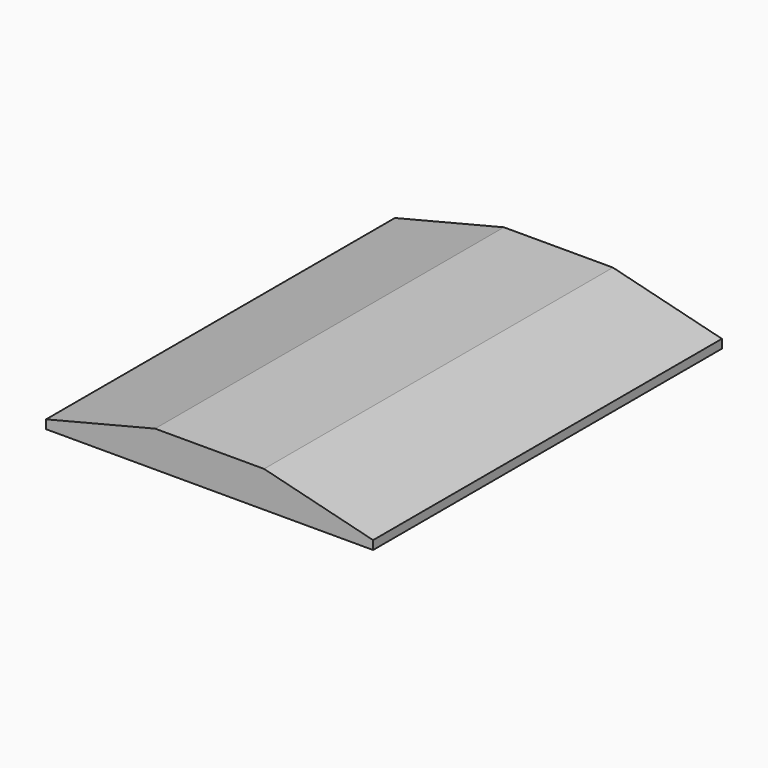
from build123d import *

# Parameters (mm, degrees)
F0_W     = 914.4
F0_H     = 1219.2
F1_DEPTH = 100.584
F2_SIZE2 = 304.8
F2_SIZE  = 76.2
F3_SIZE2 = 76.2
F3_SIZE  = 304.8


with BuildPart() as f1:
    # F0 (on Top) → F1 (new body)
    with BuildSketch(Plane.XY):
        with Locations((-2964.017556, 609.6)):
            Rectangle(F0_W, F0_H)
    extrude(amount=F1_DEPTH)

    # F2
    f2_edges = [f1.edges().sort_by_distance(p)[0] for p in [
        (-3421.217556, 609.6, 100.584),
    ]]
    chamfer(f2_edges, length=F2_SIZE, length2=F2_SIZE2)

    # F3
    f3_edges = [f1.edges().sort_by_distance(p)[0] for p in [
        (-2506.817556, 609.6, 100.584),
    ]]
    chamfer(f3_edges, length=F3_SIZE, length2=F3_SIZE2)


solid = f1.part
